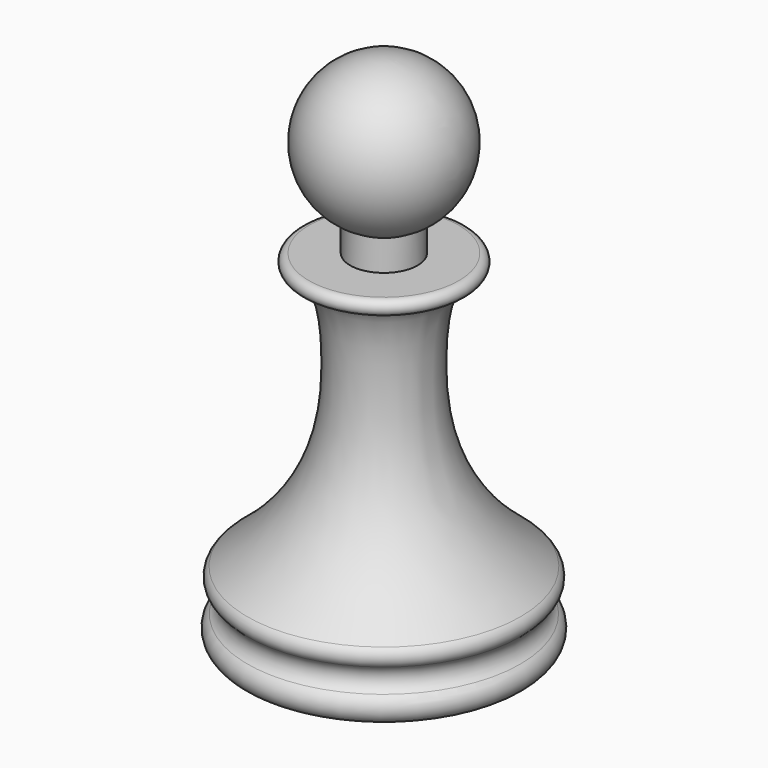
from build123d import *


with BuildPart() as f1:
    # F0 (on Front) → F1 (revolve)
    with BuildSketch(Plane.XZ):
        with BuildLine():
            Line((0, 69), (0, 0))
            Line((0, 0), (17, 0))
            ThreePointArc((17, 0), (18.8978622967, 1.3690335169), (18.1974874988, 3.6018812972))
            ThreePointArc((18.1974874988, 3.6018812972), (17.3949778182, 5.2004036282), (18.1921135967, 6.8016125404))
            ThreePointArc((18.1921135967, 6.8016125404), (18.7898094748, 7.9782241312), (18.2265242455, 9.1716917464))
            add(Edge.make_bspline(
                [(10, 43.9697144503), (7.3343249197, 43.9697144503), (5.207997373, 29.9555496825), (8.5, 16.9462975447), (18.2265242455, 9.1716917464)],
                knots=[0, 0, 0, 0, 0.3970312481, 1, 1, 1, 1], degree=3))
            ThreePointArc((10, 43.9697144503), (11, 44.9697144503), (10, 45.9697144503))
            Line((10, 45.9697144503), (4.5, 45.9697144503))
            Line((4.5, 45.9697144503), (4.5, 50.0697144503))
            ThreePointArc((4.5, 50.0697144503), (9.7288965329, 61.3126980458), (0, 69))
        make_face()
    revolve(axis=Axis((0, 0, 34.5), (0, 0, 1)))


solid = f1.part
